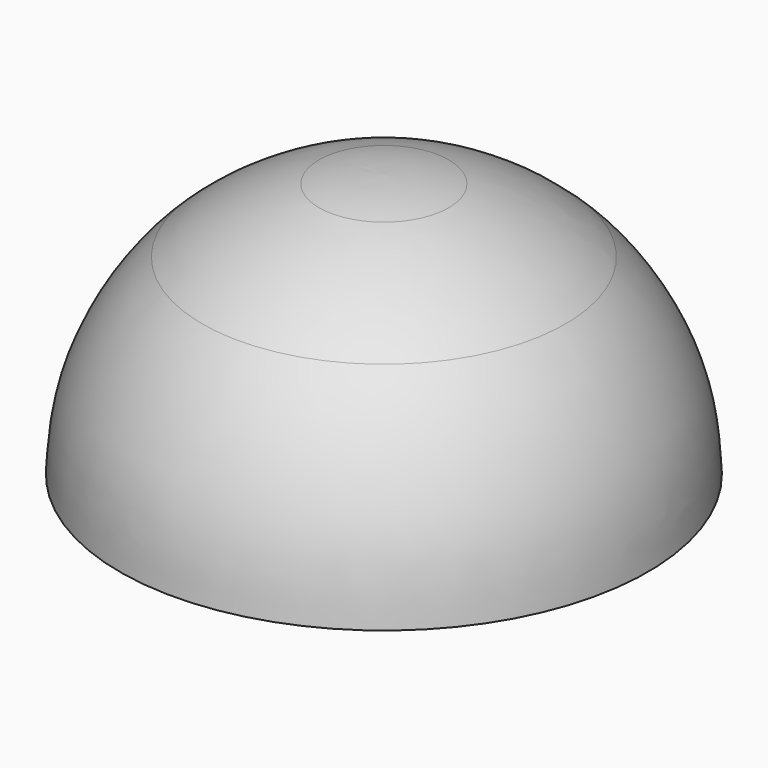
from build123d import *


with BuildPart() as f1:
    # F0 (on Front) → F1 (revolve)
    with BuildSketch(Plane.XZ):
        with BuildLine():
            Line((-9.3629474463, 36.9316289259), (0, 0))
            Line((0, 0), (0, 38.1))
            add(Edge.make_bspline(
                [(0, 38.1), (-2.8773265965, 38.0009533287), (-5.754653193, 37.9019066574), (-9.3629474463, 36.9316289259)],
                knots=[0, 0, 0, 0, 0.2017889943, 0.2017889943, 0.2017889943, 0.2017889943], degree=3))
        make_face()
        with BuildLine():
            Line((-36.4192789221, 11.1913414207), (0, 0))
            Line((0, 0), (-26.2136838, 27.6487392413))
            add(Edge.make_bspline(
                [(-26.2136838, 27.6487392413), (-31.285956539, 22.897639065), (-34.7607649535, 16.5624852111), (-36.4192789221, 11.1913414207)],
                knots=[0.4899259633, 0.4899259633, 0.4899259633, 0.4899259633, 0.7790081852, 0.7790081852, 0.7790081852, 0.7790081852], degree=3))
        make_face()
        with BuildLine():
            Line((-38.1, 0), (0, 0))
            Line((0, 0), (-36.4192789221, 11.1913414207))
            add(Edge.make_bspline(
                [(-36.4192789221, 11.1913414207), (-37.6871466221, 7.0853164774), (-37.893573311, 3.5426582387), (-38.1, 0)],
                knots=[0.7790081852, 0.7790081852, 0.7790081852, 0.7790081852, 1, 1, 1, 1], degree=3))
        make_face()
        with BuildLine():
            Line((-26.2136838, 27.6487392413), (0, 0))
            Line((0, 0), (-9.3629474463, 36.9316289259))
            add(Edge.make_bspline(
                [(-9.3629474463, 36.9316289259), (-14.5152748732, 35.5461575045), (-21.1579965849, 32.3843040768), (-26.2136838, 27.6487392413)],
                knots=[0.2017889943, 0.2017889943, 0.2017889943, 0.2017889943, 0.4899259633, 0.4899259633, 0.4899259633, 0.4899259633], degree=3))
        make_face()
    revolve(axis=Axis((0, 0, 19.05), (0, 0, 1)))


solid = f1.part
